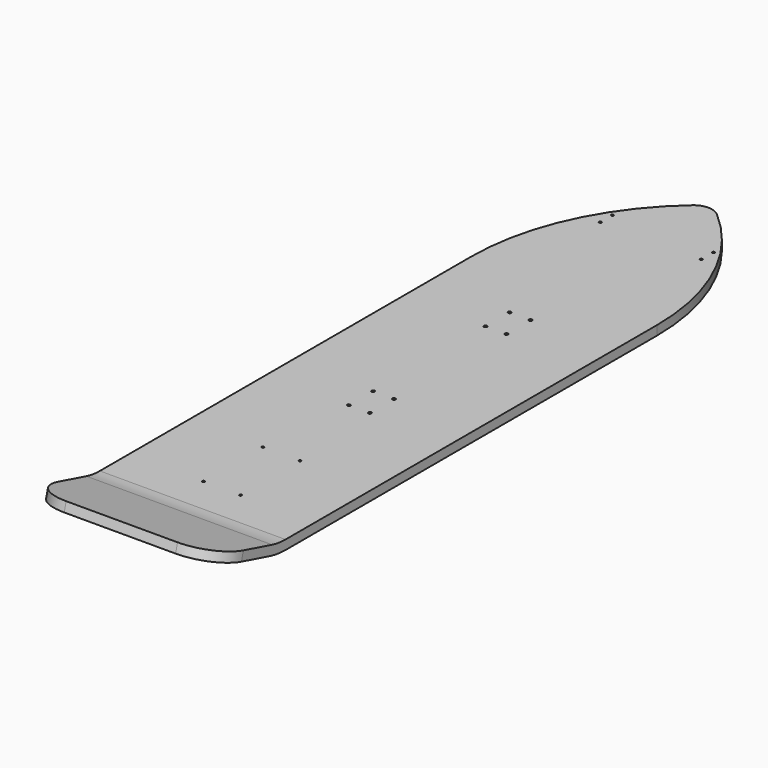
from build123d import *

# Parameters (mm, degrees)
F1_DEPTH = 12.7
F2_R     = 25.4
F4_DEPTH = 254
F5_R     = 50.8
F6_R     = 2.15265
F6_R_2   = 1.5875
F6_R_3   = 1.7272
F7_DEPTH = 12.7


with BuildPart() as f1:
    # F0 (on Top) → F1 (new body)
    with BuildSketch(Plane.XY):
        with BuildLine():
            Line((-254, -635), (0, -635))
            Line((0, -635), (0, 0))
            ThreePointArc((0, 0), (-33.5193668575, 141.9903165712), (-127, 254))
            ThreePointArc((-127, 254), (-220.4806331425, 141.9903165712), (-254, 0))
            Line((-254, 0), (-254, -635))
        make_face()
    extrude(amount=F1_DEPTH)

    # F2
    f2_edges = [f1.edges().sort_by_distance(p)[0] for p in [
        (-127, 254, 6.35),
    ]]
    fillet(f2_edges, radius=F2_R)

    # F3 (on face) → F4 (join, through all)
    with BuildSketch(Plane(origin=(-254, 0, 0), x_dir=(0, -1, 0), z_dir=(-1, 0, 0))):
        with BuildLine():
            ThreePointArc((658.0090131096, 15.7291940429), (646.6037784884, 13.4605518239), (635, 12.7))
            Line((635, 12.7), (635, 0))
            ThreePointArc((635, 0), (648.2614611296, 0.8692020844), (661.2960149824, 3.461936049))
            Line((661.2960149824, 3.461936049), (759.4340789334, 29.7579510314))
            Line((759.4340789334, 29.7579510314), (756.1470770606, 42.0252090253))
            Line((756.1470770606, 42.0252090253), (658.0090131096, 15.7291940429))
        make_face()
    extrude(amount=-F4_DEPTH)

    # F5
    f5_edges = [f1.edges().sort_by_distance(p)[0] for p in [
        (0, -757.790578, 35.89158),
        (-254, -757.790578, 35.89158),
    ]]
    fillet(f5_edges, radius=F5_R)

    # F6 (on face) → F7 (cut, through all)
    with BuildSketch(Plane.XY.offset(12.7)):
        with Locations((-112.7125, -308.7116213322)):
            Circle(F6_R)
        with Locations((-141.2875, -308.7116213322)):
            Circle(F6_R)
        with Locations((-101.6, -584.7842693329)):
            Circle(F6_R_2)
        with Locations((-152.4, -584.7842693329)):
            Circle(F6_R_2)
        with Locations((-152.4, -483.1842693329)):
            Circle(F6_R_2)
        with Locations((-101.6, -483.1842693329)):
            Circle(F6_R_2)
        with Locations((-141.2875, -75.0787870646)):
            Circle(F6_R)
        with Locations((-112.7125, -75.0787870646)):
            Circle(F6_R)
        with Locations((-112.7125, -116.3537870646)):
            Circle(F6_R)
        with Locations((-141.2875, -116.3537870646)):
            Circle(F6_R)
        with Locations((-141.2875, -349.9866213322)):
            Circle(F6_R)
        with Locations((-112.7125, -349.9866213322)):
            Circle(F6_R)
        with Locations((-57.94375, 169.1481069684)):
            Circle(F6_R_3)
        with Locations((-57.94375, 148.5106069684)):
            Circle(F6_R_3)
        with Locations((-196.05625, 148.5106069684)):
            Circle(F6_R_3)
        with Locations((-196.05625, 169.1481069684)):
            Circle(F6_R_3)
    extrude(amount=-F7_DEPTH, mode=Mode.SUBTRACT)


solid = f1.part
